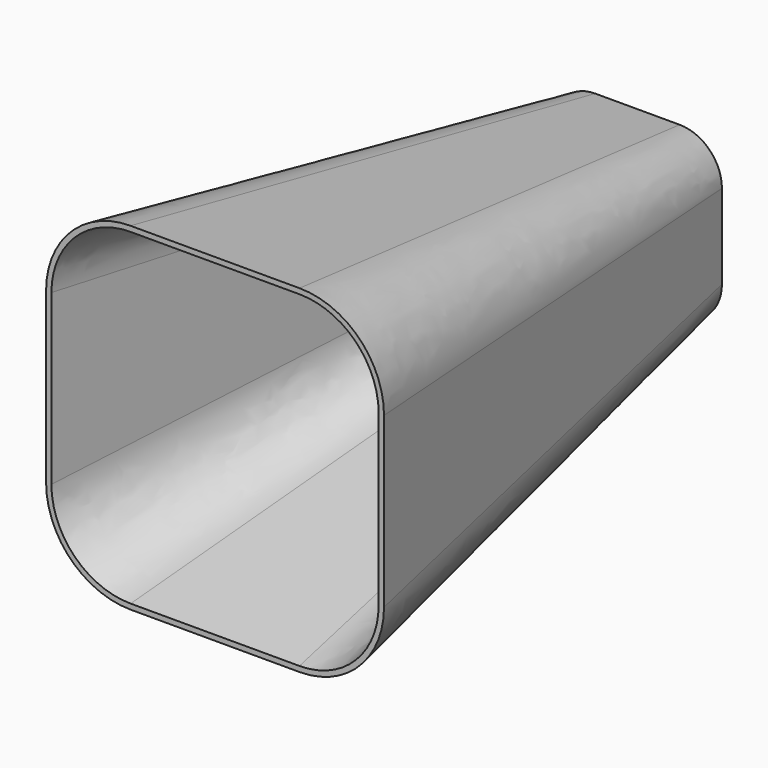
from build123d import *

# Parameters (mm, degrees)
F4_T     = -2.5
F5_R     = 20
F6_DEPTH = 2.5


with BuildPart() as f3:
    # F2 (on offset) → F3 section 0
    with BuildSketch(Plane.XZ.offset(250)):
        with BuildLine():
            ThreePointArc((80, 40), (68.284271, 68.284271), (40, 80))
            Line((40, 80), (-40, 80))
            ThreePointArc((-40, 80), (-68.284271, 68.284271), (-80, 40))
            Line((-80, 40), (-80, -40))
            ThreePointArc((-80, -40), (-68.284271, -68.284271), (-40, -80))
            Line((-40, -80), (40, -80))
            ThreePointArc((40, -80), (68.284271, -68.284271), (80, -40))
            Line((80, -40), (80, 40))
        make_face()
    # F0 (on Front) → F3 section 1
    with BuildSketch(Plane.XZ):
        with BuildLine():
            ThreePointArc((40, 20), (34.142136, 34.142136), (20, 40))
            Line((20, 40), (-20, 40))
            ThreePointArc((-20, 40), (-34.142136, 34.142136), (-40, 20))
            Line((-40, 20), (-40, -20))
            ThreePointArc((-40, -20), (-34.142136, -34.142136), (-20, -40))
            Line((-20, -40), (20, -40))
            ThreePointArc((20, -40), (34.142136, -34.142136), (40, -20))
            Line((40, -20), (40, 20))
        make_face()
    loft()

    # F4
    f4_openings = [f3.faces().sort_by_distance(p)[0] for p in [
        (0, -250, 0),
    ]]
    offset(amount=F4_T, openings=f4_openings)

    # F5 (on face) → F6 (cut, through all)
    with BuildSketch(Plane(origin=(0, 0, 0), x_dir=(-1, 0, 0), z_dir=(0, 1, 0))):
        Circle(F5_R)
    extrude(amount=-F6_DEPTH, mode=Mode.SUBTRACT)


solid = f3.part
